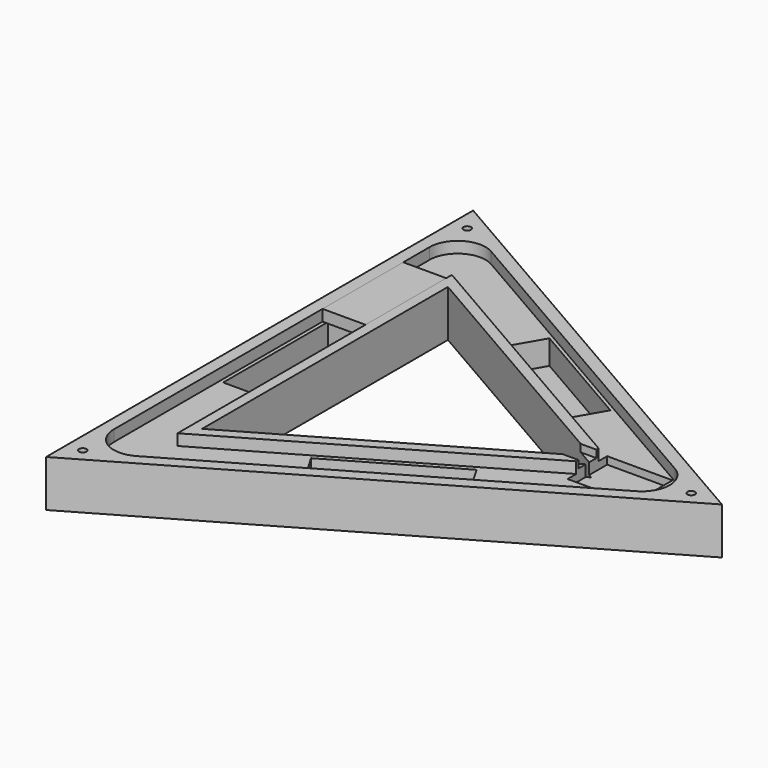
from build123d import *

# Parameters (mm, degrees)
BOX005_W               = 23
BOX005_H               = 54
BOX005_DEPTH           = 6
PRISM003_DEPTH         = 6
PRISM002_DEPTH         = 6
BOX004_W               = 10
BOX004_H               = 12
BOX004_DEPTH           = 4
BOX003_W               = 35
BOX003_H               = 26.5
BOX003_DEPTH           = 10
BOX002_W               = 70
BOX002_H               = 19
BOX002_DEPTH           = 19
BOX002_PLACEMENT_ANGLE = 30
BOX001_W               = 70
BOX001_H               = 19
BOX001_DEPTH           = 19
BOX001_PLACEMENT_ANGLE = 90
BOX_W                  = 70
BOX_H                  = 19
BOX_DEPTH              = 19
BOX_PLACEMENT_ANGLE    = 30
PRISM001_DEPTH         = 25
PRISM_DEPTH            = 25
FILLET_R               = 15
SKETCH001_R            = 2
POCKET_DEPTH           = 782.777352
POLARPATTERN_COUNT     = 3


with BuildPart() as box005:
    # Box005 → Box005 (new body)
    with BuildSketch(Plane(origin=(-76, 34, 13), x_dir=(1, 0, 0), z_dir=(0, 0, 1))):
        with Locations((11.5, 27)):
            Rectangle(BOX005_W, BOX005_H)
    extrude(amount=BOX005_DEPTH)


with BuildPart() as prism003:
    # Prism003 → Prism003 (new body)
    with BuildSketch(Plane.XY.offset(13)):
        Polygon((106, 0), (-53, 91.798693), (-53, -91.798693), align=None)
    extrude(amount=PRISM003_DEPTH)


with BuildPart() as cut006:
    # Prism002 → Prism002 (new body)
    with BuildSketch(Plane.XY.offset(13)):
        Polygon((152, 0), (-76, 131.635861), (-76, -131.635861), align=None)
    extrude(amount=PRISM002_DEPTH)

    # Cut006: cut Prism003
    add(prism003.part, mode=Mode.SUBTRACT)


with BuildPart() as box004:
    # Box004 → Box004 (new body)
    with BuildSketch(Plane(origin=(84, -6, 15), x_dir=(1, 0, 0), z_dir=(0, 0, 1))):
        with Locations((5, 6)):
            Rectangle(BOX004_W, BOX004_H)
    extrude(amount=BOX004_DEPTH)


with BuildPart() as box003:
    # Box003 → Box003 (new body)
    with BuildSketch(Plane(origin=(93, -13.3, 9), x_dir=(1, 0, 0), z_dir=(0, 0, 1))):
        with Locations((17.5, 13.25)):
            Rectangle(BOX003_W, BOX003_H)
    extrude(amount=BOX003_DEPTH)


with BuildPart() as box002:
    # Box002 → Box002 (new body)
    with BuildSketch(Plane.XY):
        with Locations((35, 9.5)):
            Rectangle(BOX002_W, BOX002_H)
    extrude(amount=BOX002_DEPTH)


with BuildPart() as box002_1:
    # Box002 placement: moved
    add(box002.part.moved(Location((7, -82, 0))).rotate(Axis((7, -82, 0), (0, 0, 1)), BOX002_PLACEMENT_ANGLE))


with BuildPart() as box001:
    # Box001 → Box001 (new body)
    with BuildSketch(Plane.XY):
        with Locations((35, 9.5)):
            Rectangle(BOX001_W, BOX001_H)
    extrude(amount=BOX001_DEPTH)


with BuildPart() as box001_1:
    # Box001 placement: moved
    add(box001.part.moved(Location((-55, -35, 0))).rotate(Axis((-55, -35, 0), (0, 0, 1)), BOX001_PLACEMENT_ANGLE))


with BuildPart() as box:
    # Box → Box (new body)
    with BuildSketch(Plane.XY):
        with Locations((35, 9.5)):
            Rectangle(BOX_W, BOX_H)
    extrude(amount=BOX_DEPTH)


with BuildPart() as box_1:
    # Box placement: moved
    add(box.part.moved(Location((-2, 65, 0))).rotate(Axis((-2, 65, 0), (0, 0, -1)), BOX_PLACEMENT_ANGLE))


with BuildPart() as prism001:
    # Prism001 → Prism001 (new body)
    with BuildSketch(Plane.XY.offset(-6)):
        Polygon((95, 0), (-47.5, 82.272413), (-47.5, -82.272413), align=None)
    extrude(amount=PRISM001_DEPTH)


with BuildPart() as body:
    # Prism → Prism (new body)
    with BuildSketch(Plane.XY.offset(-6)):
        Polygon((165, 0), (-82.5, 142.894192), (-82.5, -142.894192), align=None)
    extrude(amount=PRISM_DEPTH)

    # Cut: cut Prism001
    add(prism001.part, mode=Mode.SUBTRACT)

    # Cut001: cut Box
    add(box_1.part, mode=Mode.SUBTRACT)

    # Cut002: cut Box001
    add(box001_1.part, mode=Mode.SUBTRACT)

    # Cut003: cut Box002
    add(box002_1.part, mode=Mode.SUBTRACT)

    # Cut004: cut Box003
    add(box003.part, mode=Mode.SUBTRACT)

    # Cut005: cut Box004
    add(box004.part, mode=Mode.SUBTRACT)

    # Cut007: cut Cut006
    add(cut006.part, mode=Mode.SUBTRACT)

    # Fillet
    fillet_edges = [body.edges().sort_by_distance(p)[0] for p in [
        (152, 0, 16),
        (-76, 131.635861, 16),
        (-76, -131.635861, 16),
    ]]
    fillet(fillet_edges, radius=FILLET_R)

    # Sketch001 (on Face1 of BaseFeature) → Pocket (cut, through all)
    with BuildSketch(Plane.XY.offset(19)):
        with Locations((148.549835, 0)):
            Circle(SKETCH001_R)
    pocket = extrude(amount=-POCKET_DEPTH, mode=Mode.SUBTRACT)

    # PolarPattern: Pocket ×3 about axis
    polarpattern_axis = Axis((0, 0, 19), (0, 0, 1))
    for i in range(1, POLARPATTERN_COUNT):
        add(pocket.rotate(polarpattern_axis, i * 360 / POLARPATTERN_COUNT), mode=Mode.SUBTRACT)


solid = Compound([box005.part, body.part])
